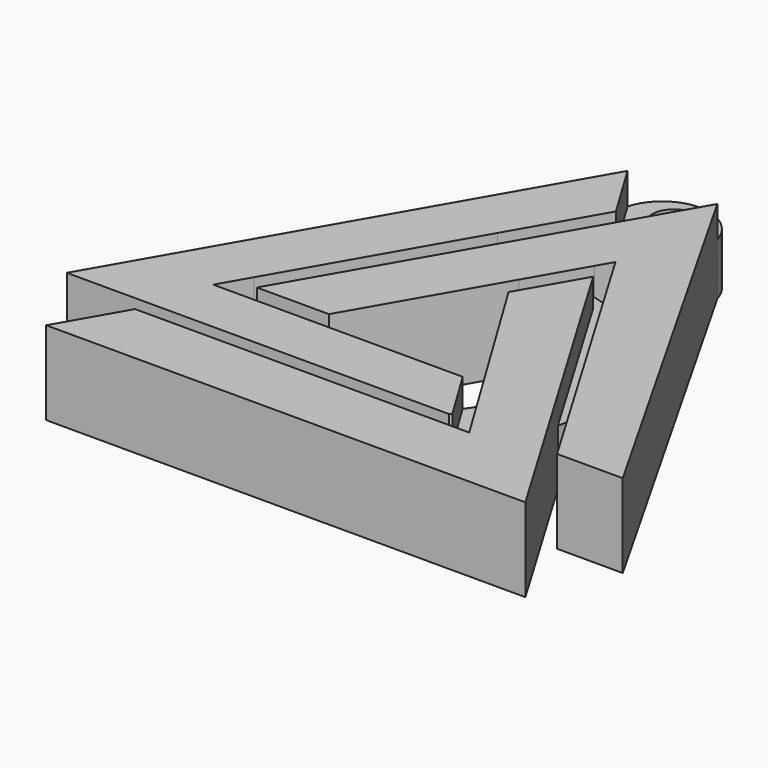
from build123d import *

# Parameters (mm, degrees)
F1_DEPTH = 4.064
F2_DEPTH = 6.096
F0_R     = 1.5875
F3_DEPTH = 3.81


with BuildPart() as f1:
    # F0 (on Top) → F1 (new body)
    with BuildSketch(Plane.XY):
        with BuildLine():
            ThreePointArc((-3.332805, 6.675153), (-4.198232, 6.474047), (-5.045567, 6.206779))
            Line((-5.045567, 6.206779), (-12.475147, -6.74291))
            ThreePointArc((-12.475147, -6.74291), (-12.213975, -7.839217), (-11.84683, -8.904723))
            Line((-11.84683, -8.904723), (-6.879852, -8.904723))
            ThreePointArc((-6.879852, -8.904723), (-7.2945, -8.285602), (-7.642369, -7.626641))
            Line((-7.642369, -7.626641), (-11.558674, -7.626641))
            Line((-11.558674, -7.626641), (-3.332805, 6.675153))
        make_face()
        with BuildLine():
            ThreePointArc((10.060523, -7.176114), (10.205887, -6.419697), (10.300328, -5.655252))
            Line((10.300328, -5.655252), (3.436154, 5.922969))
            ThreePointArc((3.436154, 5.922969), (2.635064, 6.237061), (1.812747, 6.490423))
            Line((1.812747, 6.490423), (-0.487404, 2.481281))
            ThreePointArc((-0.487404, 2.481281), (0.148569, 2.391873), (0.773937, 2.245683))
            Line((0.773937, 2.245683), (2.580103, 5.393814))
            Line((2.580103, 5.393814), (10.060523, -7.176114))
        make_face()
        with BuildLine():
            Line((4.522967, -8.947072), (6.893241, -12.846554))
            ThreePointArc((6.893241, -12.846554), (7.344862, -12.378173), (7.769292, -11.885019))
            Line((7.769292, -11.885019), (5.257529, -7.752765))
            ThreePointArc((5.257529, -7.752765), (4.919634, -8.367992), (4.522967, -8.947072))
        make_face()
        with BuildLine():
            Line((6.756257, -12.978608), (-9.081211, -12.978608))
            ThreePointArc((-9.081211, -12.978608), (-8.44977, -13.534932), (-7.779364, -14.043628))
            Line((-7.779364, -14.043628), (5.45441, -14.043628))
            ThreePointArc((5.45441, -14.043628), (6.124816, -13.534932), (6.756257, -12.978608))
        make_face()
    extrude(amount=F1_DEPTH)

    # F0 (on Top) → F2 (join)
    with BuildSketch(Plane.XY):
        with BuildLine():
            Line((-1.438017, 12.494705), (-4.049945, 16.816666))
            Line((-4.049945, 16.816666), (-21.144284, -12.978608))
            Line((-21.144284, -12.978608), (-9.081211, -12.978608))
            Line((-9.081211, -12.978608), (6.756257, -12.978608))
            ThreePointArc((6.756257, -12.978608), (6.825022, -12.912864), (6.893241, -12.846554))
            Line((6.893241, -12.846554), (4.522967, -8.947072))
            Line((4.522967, -8.947072), (4.497225, -8.904723))
            Line((4.497225, -8.904723), (-6.879852, -8.904723))
            Line((-6.879852, -8.904723), (-11.84683, -8.904723))
            Line((-11.84683, -8.904723), (-13.715436, -8.904723))
            Line((-13.715436, -8.904723), (-12.475147, -6.74291))
            Line((-12.475147, -6.74291), (-5.045567, 6.206779))
            Line((-5.045567, 6.206779), (-1.438017, 12.494705))
        make_face()
        Polygon((19.434802, -12.978608), (2.500223, 16.816666), (0, 12.469688), (-3.332805, 6.675153), (-11.558674, -7.626641), (-7.642369, -7.626641), (-6.286587, -7.626641), (-0.487404, 2.481281), (1.812747, 6.490423), (2.445692, 7.59364), (3.436154, 5.922969), (10.300328, -5.655252), (14.641996, -12.978608), align=None)
        Polygon((5.45441, -14.043628), (-7.779364, -14.043628), (-15.313038, -14.043628), (-18.023162, -18.767349), (16.95852, -18.767349), (10.060523, -7.176114), (2.580103, 5.393814), (0.773937, 2.245683), (0, 0.896719), (5.257529, -7.752765), (7.769292, -11.885019), (9.081388, -14.043628), align=None)
    extrude(amount=F2_DEPTH)

    # F0 (on Top) → F3 (join)
    with BuildSketch(Plane.XY):
        with BuildLine():
            ThreePointArc((2.500223, 16.816666), (-0.774861, 19.287277), (-4.049945, 16.816666))
            Line((-4.049945, 16.816666), (-1.438017, 12.494705))
            ThreePointArc((-1.438017, 12.494705), (-0.725922, 12.084814), (0, 12.469688))
            Line((0, 12.469688), (2.500223, 16.816666))
        make_face()
        with Locations((-0.774861, 16.946895)):
            Circle(F0_R, mode=Mode.SUBTRACT)
    extrude(amount=F3_DEPTH)


solid = f1.part
